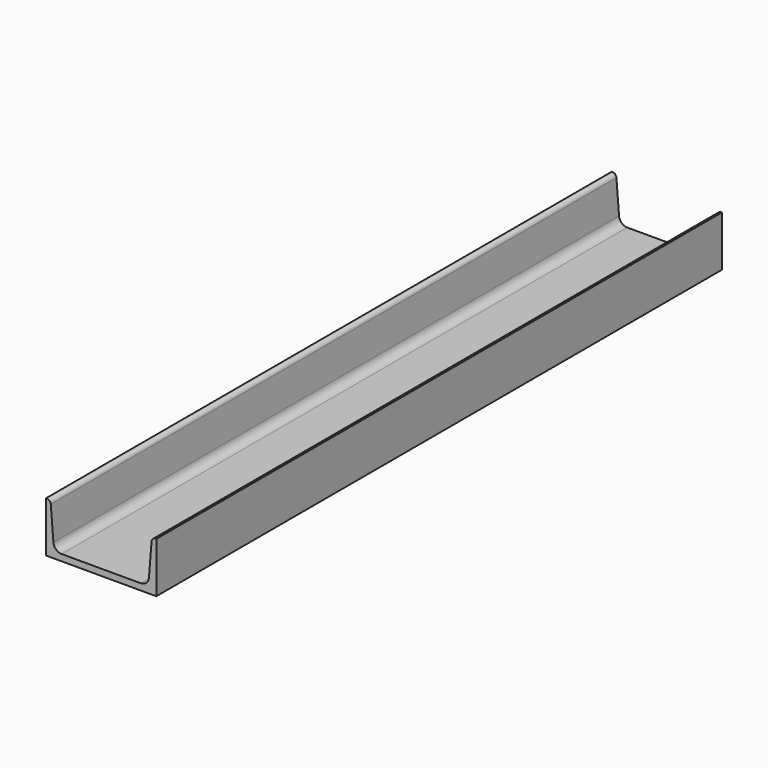
from build123d import *

# Parameters (mm, degrees)
F1_DEPTH = 770


with BuildPart() as f1:
    # F0 (on Front) → F1 (new body)
    with BuildSketch(Plane.XZ):
        with BuildLine():
            Line((0.645623, 55), (0, 55))
            Line((0, 55), (0, 0))
            Line((0, 0), (120, 0))
            Line((120, 0), (120, 55))
            Line((120, 55), (119.354377, 55))
            ThreePointArc((119.354377, 55), (116.301906, 53.806421), (114.868708, 50.858854))
            Line((114.868708, 50.858854), (112.022583, 15.282293))
            ThreePointArc((112.022583, 15.282293), (109.156188, 9.387158), (103.051246, 7))
            Line((103.051246, 7), (16.948754, 7))
            ThreePointArc((16.948754, 7), (10.843812, 9.387158), (7.977417, 15.282293))
            Line((7.977417, 15.282293), (5.131292, 50.858854))
            ThreePointArc((5.131292, 50.858854), (3.698094, 53.806421), (0.645623, 55))
        make_face()
    extrude(amount=F1_DEPTH)


solid = f1.part
